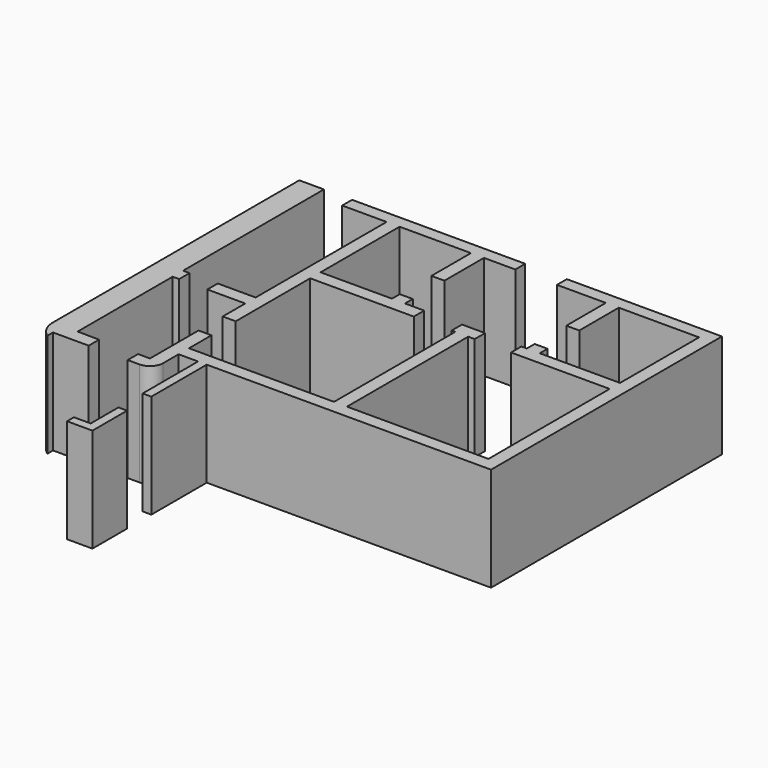
from build123d import *

# Parameters (mm, degrees)
F0_W     = 200
F0_H     = 1600
F0_W_2   = 876
F0_H_2   = 300
F1_DEPTH = 2400


with BuildPart() as f1:
    # F0 (on Top) → F1 (new body)
    with BuildSketch(Plane.XY):
        with BuildLine():
            Line((-1176, -750), (-1176, -450))
            Line((-1176, -450), (-1676, -445))
            Line((-1676, -445), (-1676, 2300))
            Line((-1676, 2300), (-1526, 2300))
            Line((-1526, 2300), (-1526, 2600))
            Line((-1526, 2600), (-1676, 2600))
            Line((-1676, 2600), (-1676, 3995.43786))
            Line((-1676, 3995.43786), (-1676, 6380.676746))
            Line((-1676, 6380.676746), (-1676, 6666.423321))
            Line((-1676, 6666.423321), (-2245.715719, 6666.423321))
            Line((-2245.715719, 6666.423321), (-2245.715719, -445))
            ThreePointArc((-2245.715719, -445), (-2234.169793, -559.116089), (-2200, -668.606798))
            ThreePointArc((-2200, -668.606798), (-2117.342557, -805.267606), (-2000, -913.614981))
            Line((-2000, -913.614981), (-2000, -750))
            Line((-2000, -750), (-1176, -750))
        make_face()
        Polygon((950, -2300), (750, -2300), (750, -2850), (750, -3100), (363.550577, -3100), (363.550577, -3300), (950, -3300), (950, -3100), align=None)
        with Locations((850, -800)):
            Rectangle(F0_W, F0_H)
        Polygon((0, 950), (0, 0), (300, 0), (750, 0), (950, 0), (4232.432579, 0), (7317.490244, 0), (7517.490244, 0), (7517.490244, 6666.423321), (3935.103893, 6666.423321), (3935.103893, 6380.676746), (5063.49802, 6380.676746), (5063.49802, 5240.338373), (5363.49802, 5240.338373), (5363.49802, 6380.676746), (7217.490244, 6380.676746), (7217.490244, 4100), (5363.49802, 4100), (5363.49802, 4325.747013), (5063.49802, 4325.747013), (5063.49802, 4100), (4938.761711, 4100), (4938.761711, 3800), (7217.490244, 3800), (7217.490244, 300), (3950, 300), (3950, 3800), (4099.612713, 3800), (4099.612713, 4100), (3566.639423, 4100), (3566.639423, 3800), (3650, 3800), (3650, 300), (300, 300), (300, 950), align=None)
        Polygon((0, 2300), (0, 1650), (300, 1650), (300, 2667.567852), (300, 3800), (2693.470716, 3800), (2693.470716, 4100), (2248.861957, 4100), (2248.861957, 4325.747013), (1948.861957, 4325.747013), (1948.861957, 4100), (300, 4100), (300, 6380.676746), (1948.861957, 6380.676746), (1948.861957, 5240.338373), (2248.861957, 5240.338373), (2248.861957, 6380.676746), (2973.971367, 6380.676746), (2973.971367, 6666.423321), (0, 6666.423321), (-1026, 6666.423321), (-1026, 6380.676746), (0, 6380.676746), (0, 6030.036926), (0, 4100), (0, 2683.783711), (0, 2600), align=None)
        with Locations((-438, 2450)):
            Rectangle(F0_W_2, F0_H_2)
        with BuildLine():
            Line((300, 0), (0, 0))
            Line((0, 0), (0, -450))
            Line((0, -450), (-276, -450))
            Line((-276, -450), (-276, -750))
            Line((-276, -750), (0, -750))
            ThreePointArc((0, -750), (212.132034, -662.132034), (300, -450))
            Line((300, -450), (300, 0))
        make_face()
        Polygon((0, 950), (0, 0), (300, 0), (750, 0), (950, 0), (4232.432579, 0), (7317.490244, 0), (7517.490244, 0), (7517.490244, 6666.423321), (3935.103893, 6666.423321), (3935.103893, 6380.676746), (5063.49802, 6380.676746), (5063.49802, 5240.338373), (5363.49802, 5240.338373), (5363.49802, 6380.676746), (7217.490244, 6380.676746), (7217.490244, 4100), (5363.49802, 4100), (5363.49802, 4325.747013), (5063.49802, 4325.747013), (5063.49802, 4100), (4938.761711, 4100), (4938.761711, 3800), (7217.490244, 3800), (7217.490244, 300), (3950, 300), (3950, 3800), (4099.612713, 3800), (4099.612713, 4100), (3566.639423, 4100), (3566.639423, 3800), (3650, 3800), (3650, 300), (300, 300), (300, 950), align=None)
    extrude(amount=F1_DEPTH)


solid = f1.part
